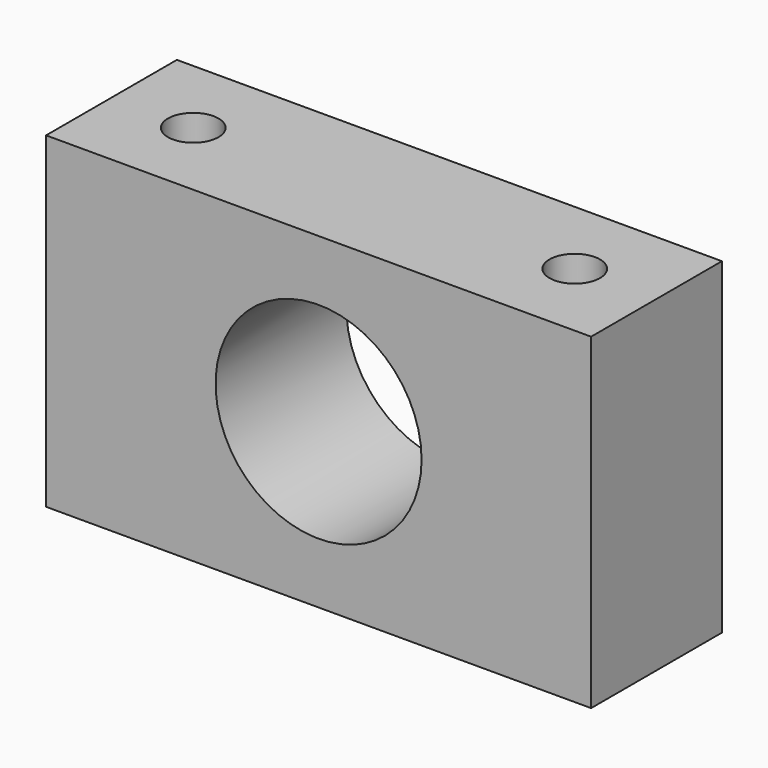
from build123d import *

# Parameters (mm, degrees)
F0_W     = 31.75
F0_H     = 19.05
F0_R     = 6
F1_DEPTH = 4.7625
F3_D     = 2.9464


with BuildPart() as f1:
    # F0 (on Front) → F1 (new body, symmetric)
    with BuildSketch(Plane.XZ):
        Rectangle(F0_W, F0_H)
        Circle(F0_R, mode=Mode.SUBTRACT)
    extrude(amount=F1_DEPTH, both=True)

    # F3 (through all)
    with Locations(Plane.XY.offset(9.525)):
        with Locations((-11.1125, 0), (11.1125, 0)):
            Hole(F3_D / 2)


solid = f1.part
